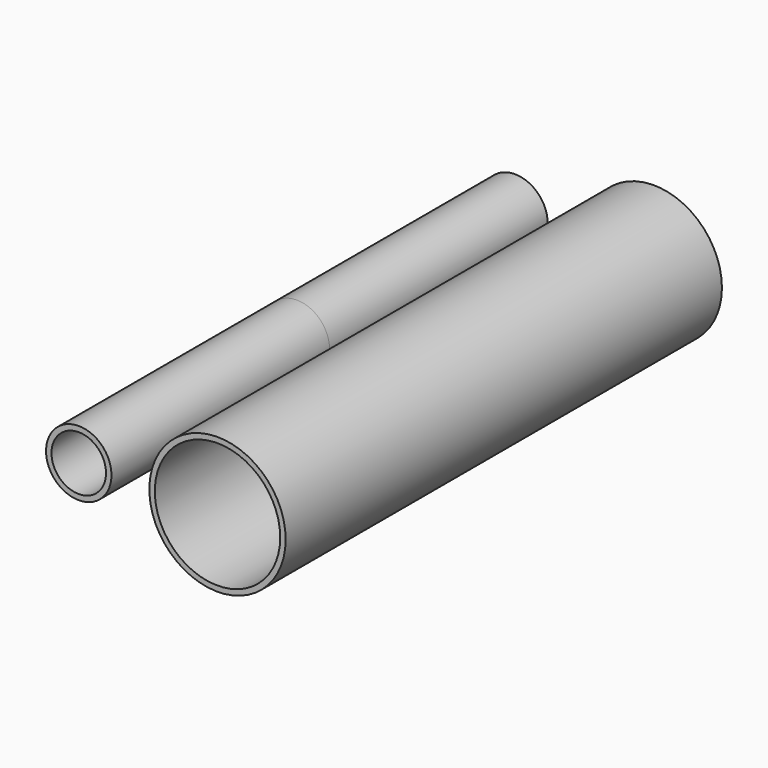
from build123d import *

# Parameters (mm, degrees)
F0_R     = 6
F0_R_2   = 5
F0_R_3   = 12.5
F0_R_4   = 11.5
F1_DEPTH = 50


with BuildPart() as f1:
    # F0 (on Front) → F1 (new body, symmetric)
    with BuildSketch(Plane.XZ):
        Circle(F0_R)
        Circle(F0_R_2, mode=Mode.SUBTRACT)
        with Locations((25.446169, 0)):
            Circle(F0_R_3)
        with Locations((25.446169, 0)):
            Circle(F0_R_4, mode=Mode.SUBTRACT)
    extrude(amount=F1_DEPTH, both=True)


solid = f1.part
